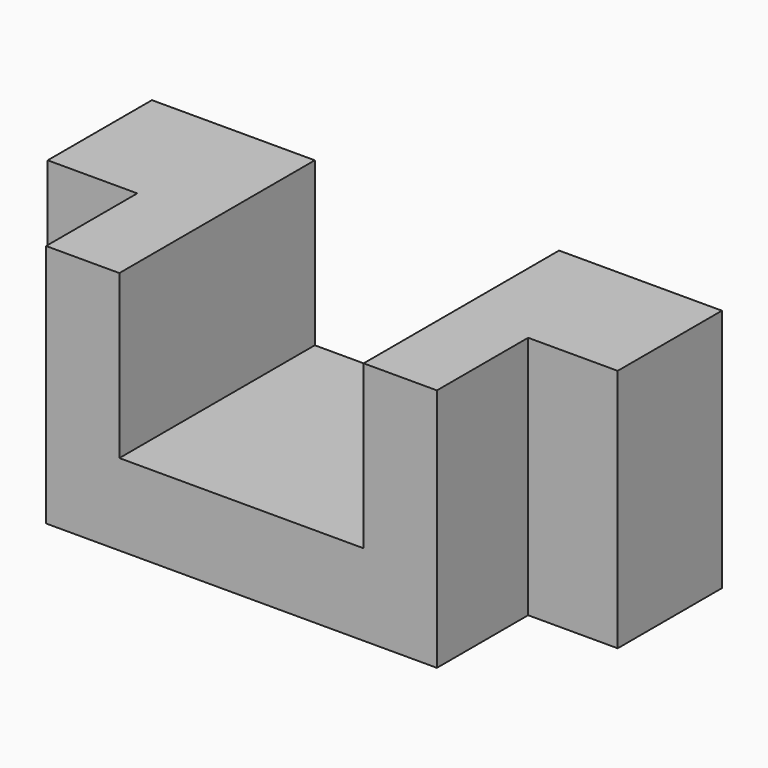
from build123d import *

# Parameters (mm, degrees)
F1_DEPTH = 30
F2_W     = 11
F2_H     = 14
F3_DEPTH = 20


with BuildPart() as f1:
    # F0 (on Front) → F1 (new body)
    with BuildSketch(Plane.XZ):
        Polygon((-15, 10.635083), (-35, 10.635083), (-35, -19.364917), (35, -19.364917), (35, 10.635083), (15, 10.635083), (15, -9.364917), (-15, -9.364917), align=None)
    extrude(amount=F1_DEPTH)

    # F2 (on Top) → F3 (cut, symmetric)
    with BuildSketch(Plane.XY):
        with Locations((-29.5, -23)):
            Rectangle(F2_W, F2_H)
        with Locations((29.5, -23)):
            Rectangle(F2_W, F2_H)
    extrude(amount=F3_DEPTH, both=True, mode=Mode.SUBTRACT)


solid = f1.part
